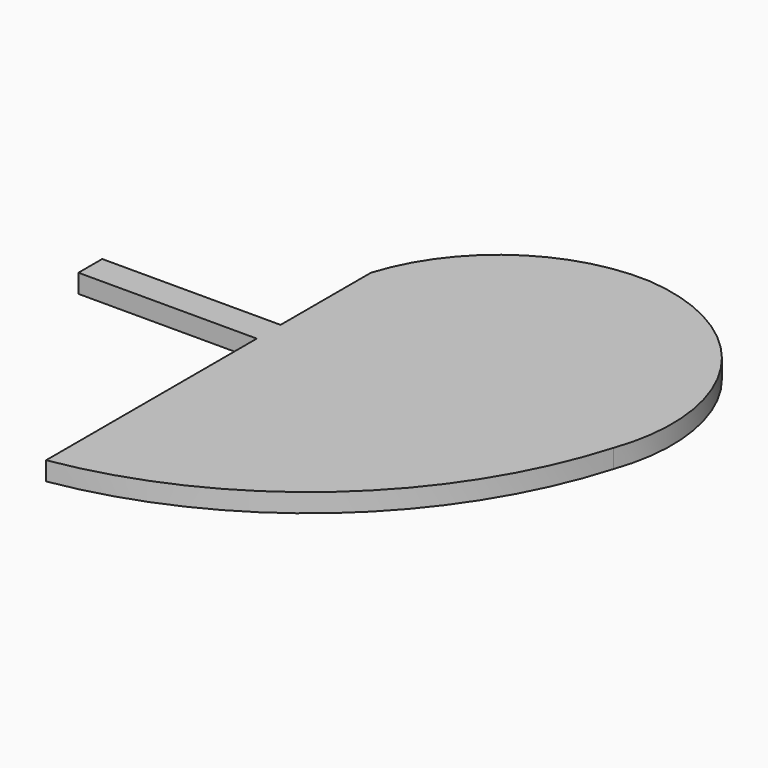
from build123d import *

# Parameters (mm, degrees)
F1_DEPTH = 3.9878


with BuildPart() as f1:
    # F0 (on Top) → F1 (new body)
    with BuildSketch(Plane.XY):
        with BuildLine():
            Line((-38.1, 0), (0, 0))
            Line((0, 0), (0, -56.261))
            ThreePointArc((0, -56.261), (44.596761, -35.22038), (71.12, 6.35))
            ThreePointArc((71.12, 6.35), (67.181938, 39.92176), (38.1, 57.15))
            ThreePointArc((38.1, 57.15), (14.508681, 50.302599), (0, 30.48))
            Line((0, 30.48), (0, 6.35))
            Line((0, 6.35), (-38.1, 6.35))
            Line((-38.1, 6.35), (-38.1, 0))
        make_face()
    extrude(amount=F1_DEPTH)


solid = f1.part
